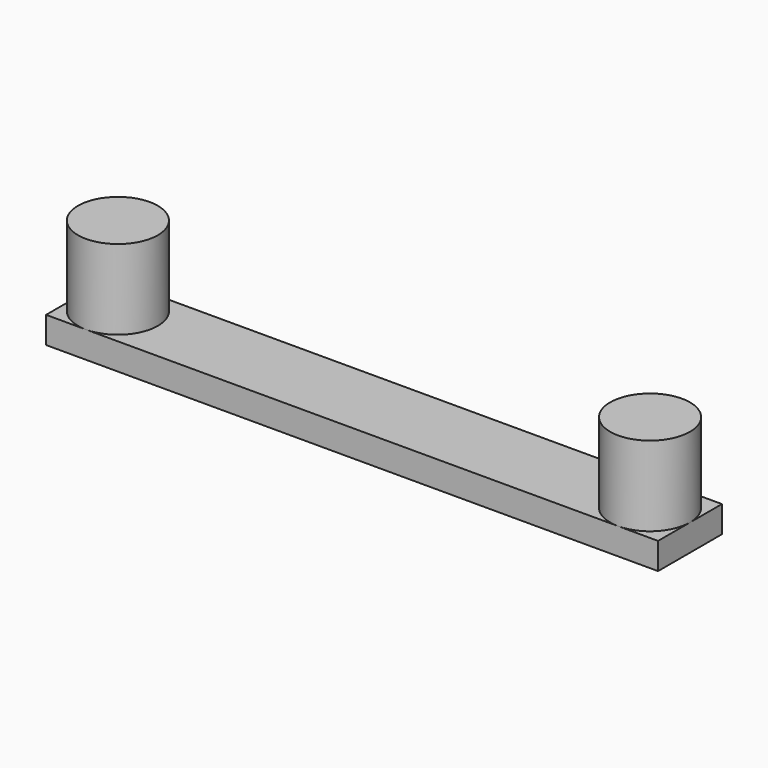
from build123d import *

# Parameters (mm, degrees)
F0_W     = 115
F0_H     = 15
F1_DEPTH = 5
F2_R     = 7.5
F3_DEPTH = 15


with BuildPart() as f1:
    # F0 (on Top) → F1 (new body)
    with BuildSketch(Plane.XY):
        Rectangle(F0_W, F0_H)
    extrude(amount=F1_DEPTH)

    # F2 (on face) → F3 (join)
    with BuildSketch(Plane.XY.offset(5)):
        with BuildLine():
            ThreePointArc((-57.5, 0), (-50, -7.5), (-42.5, 0))
            ThreePointArc((-42.5, 0), (-50, 7.5), (-57.5, 0))
        make_face()
        with Locations((50, 0)):
            Circle(F2_R)
    extrude(amount=F3_DEPTH)


solid = f1.part
